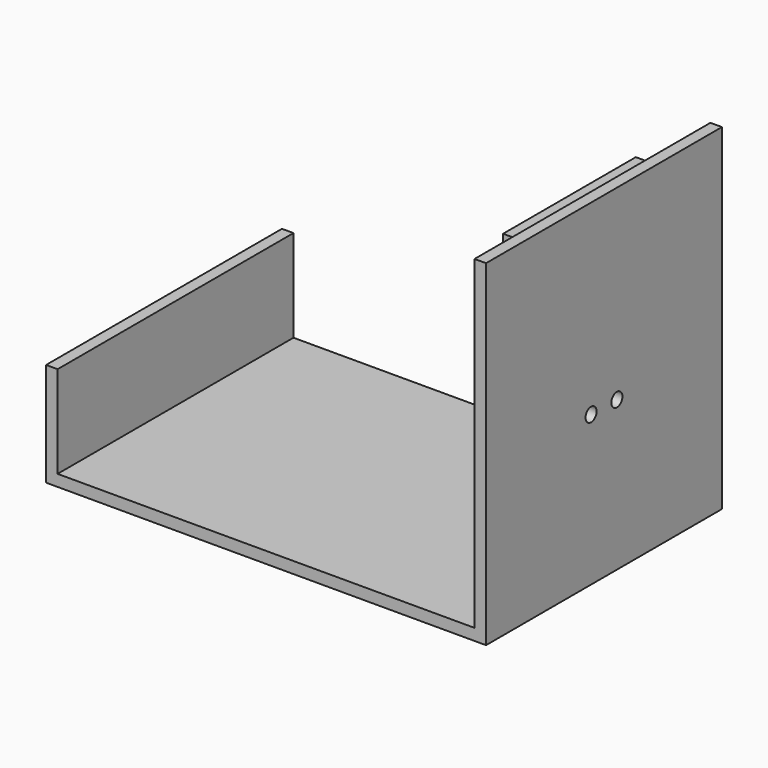
from build123d import *

# Parameters (mm, degrees)
F0_W     = 95.5
F0_H     = 64
F1_DEPTH = 2.5
F2_W     = 2.5
F2_H     = 64
F3_DEPTH = 20
F4_DEPTH = 70.5
F5_W     = 36
F5_H     = 2
F5_W_2   = 2
F5_H_2   = 21
F6_DEPTH = 5
F5_R     = 1.5
F7_DEPTH = 25


with BuildPart() as f1:
    # F0 (on Top) → F1 (new body)
    with BuildSketch(Plane.XY):
        with Locations((47.75, 32)):
            Rectangle(F0_W, F0_H)
    extrude(amount=F1_DEPTH)

    # F2 (on face) → F3 (join)
    with BuildSketch(Plane.XY.offset(2.5)):
        with Locations((1.25, 32)):
            Rectangle(F2_W, F2_H)
    extrude(amount=F3_DEPTH)

    # F2 (on face) → F4 (join)
    with BuildSketch(Plane.XY.offset(2.5)):
        with Locations((94.25, 32)):
            Rectangle(F2_W, F2_H)
    extrude(amount=F4_DEPTH)

    # F5 (on face) → F6 (join)
    with BuildSketch(Plane(origin=(93, 0, 0), x_dir=(0, -1, 0), z_dir=(-1, 0, 0))):
        with Locations((-32, 69.5)):
            Rectangle(F5_W, F5_H)
        with Locations((-8, 53)):
            Rectangle(F5_W_2, F5_H_2)
        with Locations((-32, 36.5)):
            Rectangle(F5_W, F5_H)
        with Locations((-56, 53)):
            Rectangle(F5_W_2, F5_H_2)
    extrude(amount=F6_DEPTH)

    # F5 (on face) → F7 (cut)
    with BuildSketch(Plane(origin=(93, 0, 0), x_dir=(0, -1, 0), z_dir=(-1, 0, 0))):
        with Locations((-35.5, 32.5)):
            Circle(F5_R)
        with Locations((-28.5, 32.5)):
            Circle(F5_R)
    extrude(amount=-F7_DEPTH, mode=Mode.SUBTRACT)


solid = f1.part
